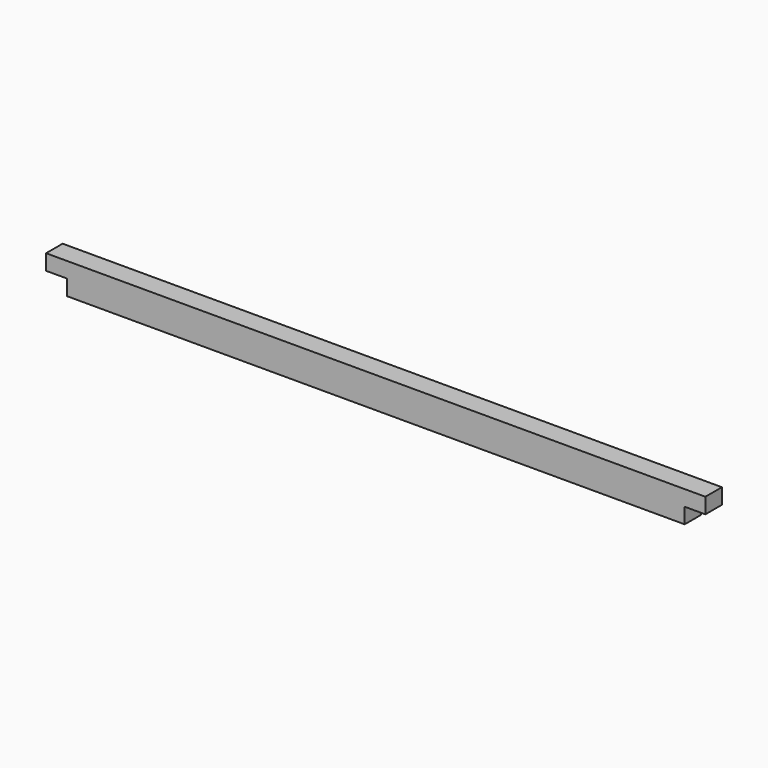
from build123d import *

# Parameters (mm, degrees)
F0_W     = 80
F0_H     = 120
F1_DEPTH = 2550
F2_W     = 80
F2_H     = 60
F3_DEPTH = 80


with BuildPart() as f1:
    # F0 (on Right) → F1 (new body)
    with BuildSketch(Plane.YZ):
        Rectangle(F0_W, F0_H)
    extrude(amount=F1_DEPTH)

    # F2 (on face) → F3 (cut, through all)
    with BuildSketch(Plane.XZ.offset(40)):
        with Locations((2510, -30)):
            Rectangle(F2_W, F2_H)
        with Locations((40, -30)):
            Rectangle(F2_W, F2_H)
    extrude(amount=-F3_DEPTH, mode=Mode.SUBTRACT)


solid = f1.part
